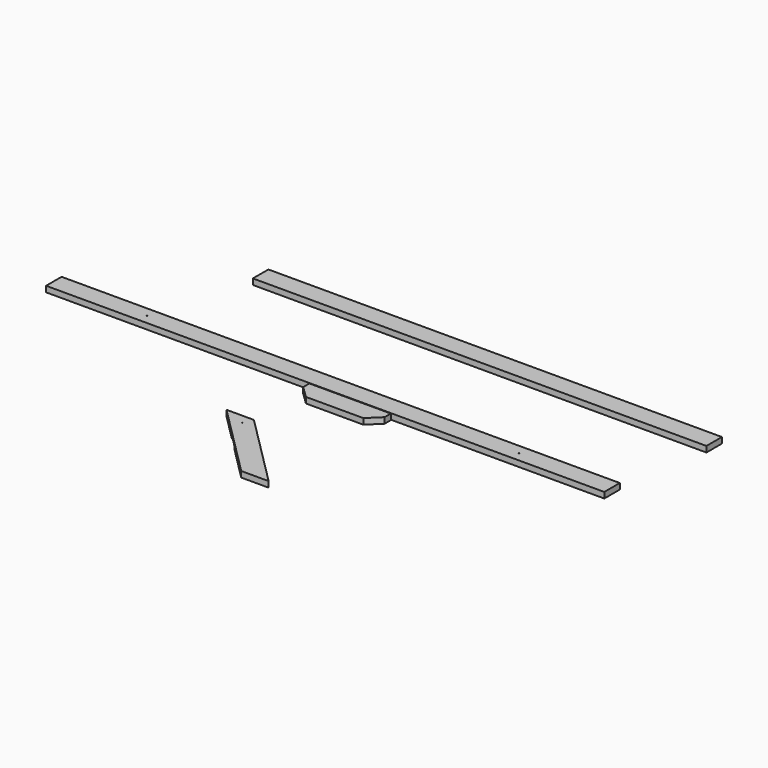
from build123d import *

# Parameters (mm, degrees)
F0_R     = 1.27
F3_DEPTH = 19.05
F4_DEPTH = 19.05
F5_DEPTH = 19.05
F6_DEPTH = 9.525
F7_W     = 1485.9
F7_H     = 63.5
F8_DEPTH = 19.05


with BuildPart() as f3:
    # F0 (on Top) → F3 (new body)
    with BuildSketch(Plane.XY):
        Polygon((106.5247591868, 311.1795735657), (-1722.2752408132, 311.1795735657), (-1722.2752408132, 247.6795735657), (106.5247591868, 247.6795735657), (106.5247591868, 279.4295735657), align=None)
        with Locations((-1417.4752408132, 279.4295735657)):
            Circle(F0_R, mode=Mode.SUBTRACT)
        with BuildLine():
            ThreePointArc((-199.5452408132, 279.4295735657), (-198.2752408132, 280.6995735657), (-197.0052408132, 279.4295735657))
            ThreePointArc((-197.0052408132, 279.4295735657), (-198.2752408132, 278.1595735657), (-199.5452408132, 279.4295735657))
        make_face(mode=Mode.SUBTRACT)
    extrude(amount=F3_DEPTH)


with BuildPart() as f4:
    # F1 (on Top) → F4 (new body)
    with BuildSketch(Plane.XY):
        Polygon((-591.1678494178, 245.5934405844), (-724.5178494178, 245.5934405844), (-724.5178494178, 182.0934405844), (-630.580947315, 182.0934405844), (-591.1678494178, 220.1934405844), align=None)
        Polygon((-724.5178494178, 245.5934405844), (-857.8678494178, 245.5934405844), (-857.8678494178, 220.1934405844), (-818.4547515206, 182.0934405844), (-724.5178494178, 182.0934405844), align=None)
    extrude(amount=F4_DEPTH)


with BuildPart() as f5:
    # F2 (on Top) → F5 (new body)
    with BuildSketch(Plane.XY):
        Polygon((-842.7594071963, -0.5528051282), (-932.561968407, -0.5528051282), (-843.2106878017, -89.9040857336), (-798.3094071963, -45.0028051282), align=None)
        with BuildLine():
            ThreePointArc((-857.1806878017, -32.3028051282), (-857.084014808, -31.8167971691), (-856.8087134138, -31.4047795161))
            ThreePointArc((-856.8087134138, -31.4047795161), (-855.4246798426, -31.129478122), (-854.6406878017, -32.3028051282))
            ThreePointArc((-854.6406878017, -32.3028051282), (-854.7373607954, -32.7888130874), (-855.0126621896, -33.2008307404))
            ThreePointArc((-855.0126621896, -33.2008307404), (-856.3966957608, -33.4761321345), (-857.1806878017, -32.3028051282))
        make_face(mode=Mode.SUBTRACT)
        Polygon((-753.408126591, -89.9040857336), (-798.3094071963, -134.8053663389), (-691.261968407, -241.8528051282), (-601.4594071963, -241.8528051282), align=None)
        Polygon((-798.3094071963, -45.0028051282), (-843.2106878017, -89.9040857336), (-798.3094071963, -134.8053663389), (-753.408126591, -89.9040857336), align=None)
        with BuildLine():
            ThreePointArc((-797.4113815842, -89.0060601215), (-797.1360801901, -89.4180777745), (-797.0394071963, -89.9040857336))
            ThreePointArc((-797.0394071963, -89.9040857336), (-797.1360801901, -90.3900936927), (-797.4113815842, -90.8021113457))
            ThreePointArc((-797.4113815842, -90.8021113457), (-798.3094071963, -91.1740857336), (-799.2074328084, -90.8021113457))
            ThreePointArc((-799.2074328084, -90.8021113457), (-799.5794071963, -89.9040857336), (-799.2074328084, -89.0060601215))
            ThreePointArc((-799.2074328084, -89.0060601215), (-798.3094071963, -88.6340857336), (-797.4113815842, -89.0060601215))
        make_face(mode=Mode.SUBTRACT)
    extrude(amount=F5_DEPTH)

    # F2 (on Top) → F6 (cut)
    with BuildSketch(Plane.XY):
        Polygon((-798.3094071963, -45.0028051282), (-843.2106878017, -89.9040857336), (-798.3094071963, -134.8053663389), (-753.408126591, -89.9040857336), align=None)
        with BuildLine():
            ThreePointArc((-797.4113815842, -89.0060601215), (-797.1360801901, -89.4180777745), (-797.0394071963, -89.9040857336))
            ThreePointArc((-797.0394071963, -89.9040857336), (-797.1360801901, -90.3900936927), (-797.4113815842, -90.8021113457))
            ThreePointArc((-797.4113815842, -90.8021113457), (-798.3094071963, -91.1740857336), (-799.2074328084, -90.8021113457))
            ThreePointArc((-799.2074328084, -90.8021113457), (-799.5794071963, -89.9040857336), (-799.2074328084, -89.0060601215))
            ThreePointArc((-799.2074328084, -89.0060601215), (-798.3094071963, -88.6340857336), (-797.4113815842, -89.0060601215))
        make_face(mode=Mode.SUBTRACT)
    extrude(amount=F6_DEPTH, mode=Mode.SUBTRACT)


with BuildPart() as f8:
    # F7 (on Top) → F8 (new body)
    with BuildSketch(Plane.XY):
        with Locations((-591.6171892166, 641.722178936)):
            Rectangle(F7_W, F7_H)
    extrude(amount=F8_DEPTH)


solid = Compound([f3.part, f4.part, f5.part, f8.part])
